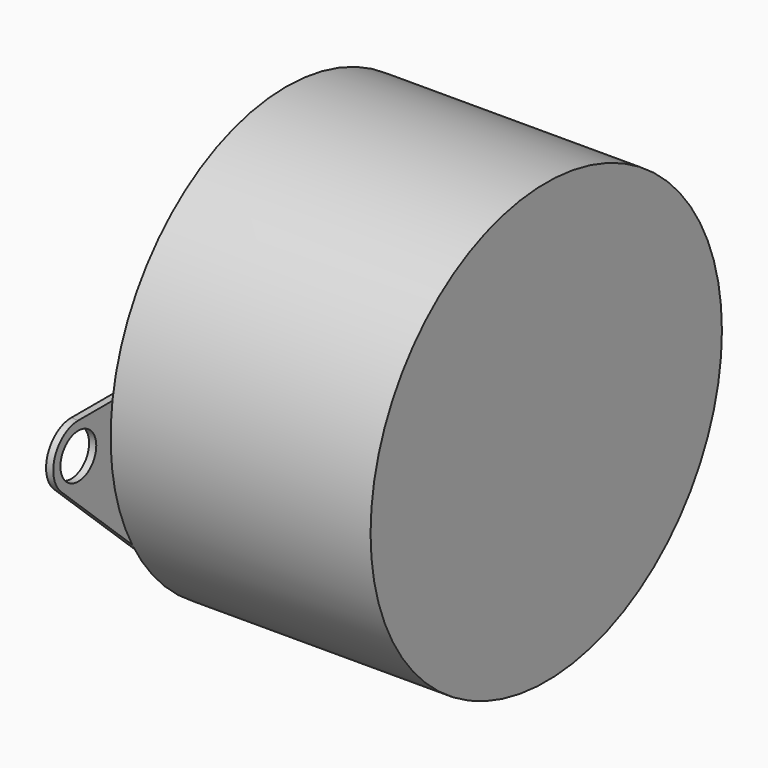
from build123d import *

# Parameters (mm, degrees)
SKETCH009_R  = 24.5
PAD004_DEPTH = 29
SKETCH011_R  = 2.5
PAD005_DEPTH = 0.8


with BuildPart() as part:
    # Sketch009 → Pad004 (new body)
    with BuildSketch(Plane.YZ):
        Circle(SKETCH009_R)
    extrude(amount=PAD004_DEPTH)

    # Sketch010 → Revolution002 (revolve)
    with BuildSketch(Plane.XY):
        Polygon((-2, 5), (-2, 2), (-3, 2), (-3, 3.8), (-13, 3.8), (-13, 0), (0, 0), (0, 5), align=None)
    revolve(axis=Axis((0, 0, 0), (1, 0, 0)))

    # Sketch011 → Pad005 (join)
    with BuildSketch(Plane.YZ):
        with BuildLine():
            ThreePointArc((-28.999999, 3.5), (-32.257305, 1.28061), (-31.383621, -2.56288))
            Line((-31.383621, -2.56288), (-15.834049, -17.024847))
            ThreePointArc((-15.834049, -17.024847), (2e-06, -23.25), (15.834052, -17.024844))
            Line((31.383621, -2.56288), (15.834052, -17.024844))
            ThreePointArc((31.383621, -2.56288), (32.257306, 1.280609), (29, 3.5))
            Line((22.985049, 3.5), (29, 3.5))
            ThreePointArc((22.985049, 3.5), (0, 23.25), (-22.985049, 3.5))
            Line((-28.999999, 3.5), (-22.985049, 3.5))
        make_face()
        with Locations((-29, 0)):
            Circle(SKETCH011_R, mode=Mode.SUBTRACT)
        with Locations((29, 0)):
            Circle(SKETCH011_R, mode=Mode.SUBTRACT)
    extrude(amount=-PAD005_DEPTH)


with BuildPart() as part_1:
    # Body005 placement: moved
    add(part.part.moved(Location((170, 135, 29.5))))


solid = part_1.part
